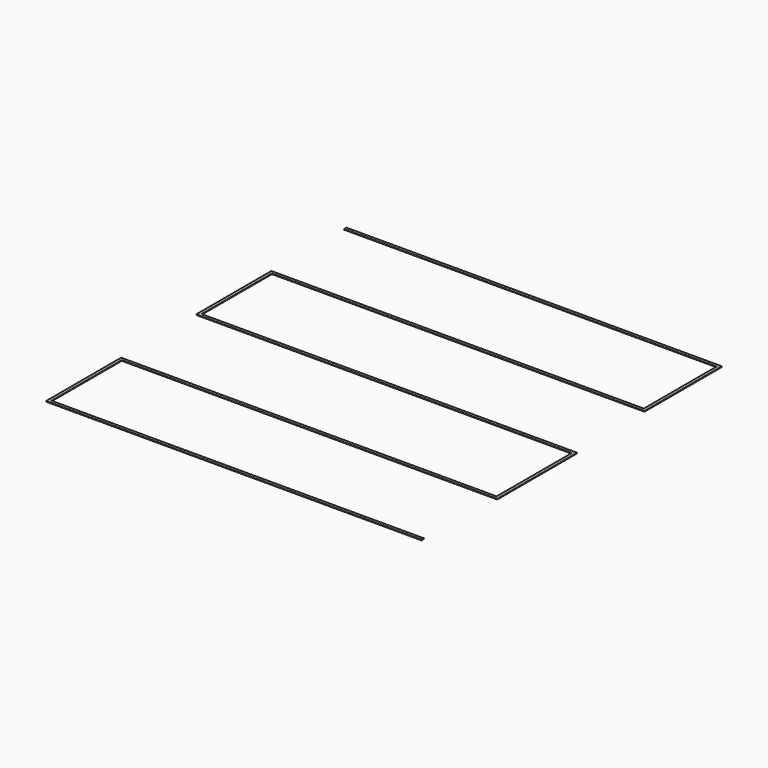
from build123d import *

# Parameters (mm, degrees)
F1_DEPTH = 0.2


with BuildPart() as f1:
    # F0 (on Top) → F1 (new body)
    with BuildSketch(Plane.XY):
        Polygon((61.5, 31.25), (-62.5, 31.25), (-62.5, 0), (62.5, 0), (62.5, -31.25), (-62.5, -31.25), (-62.5, -62.5), (62.5, -62.5), (62.5, -61.5), (-61.5, -61.5), (-61.5, -32.25), (63.5, -32.25), (63.5, 1), (-61.5, 1), (-61.5, 30.25), (62.5, 30.25), (62.5, 62.5), (-62.5, 62.5), (-62.5, 61.5), (61.5, 61.5), align=None)
    extrude(amount=F1_DEPTH)


solid = f1.part
